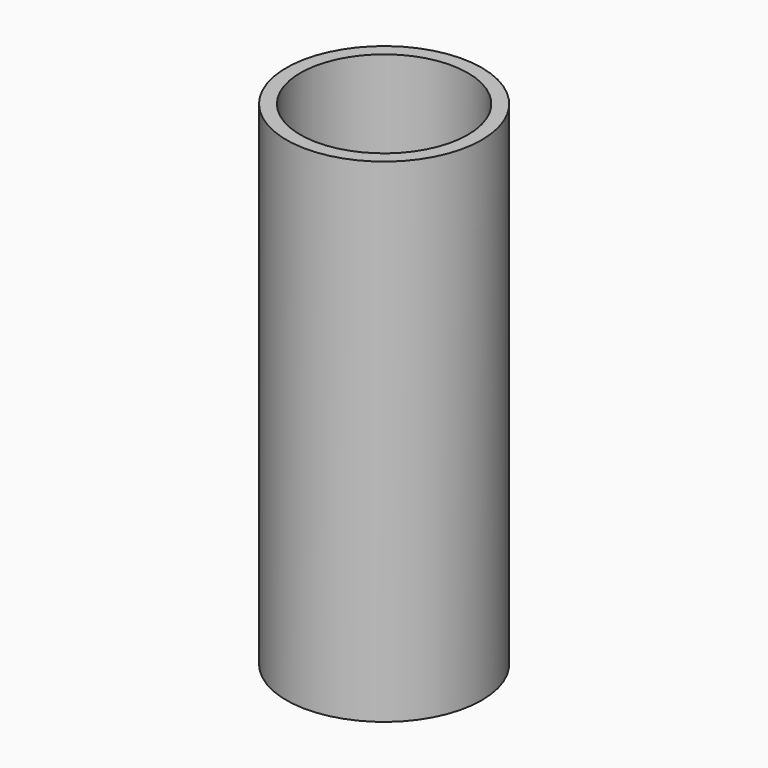
from build123d import *

# Parameters (mm, degrees)
SKETCH_R      = 10.5
SKETCH_R_2    = 9
PAD_DEPTH     = 50
SKETCH001_R   = 10.5
SKETCH001_R_2 = 1.75
PAD002_DEPTH  = 3


with BuildPart() as part:
    # Sketch → Pad (new body)
    with BuildSketch(Plane.XY):
        Circle(SKETCH_R)
        Circle(SKETCH_R_2, mode=Mode.SUBTRACT)
    extrude(amount=PAD_DEPTH)

    # Sketch001 → Pad002 (join)
    with BuildSketch(Plane.XY):
        Circle(SKETCH001_R)
        Circle(SKETCH001_R_2, mode=Mode.SUBTRACT)
    extrude(amount=-PAD002_DEPTH)


solid = part.part
